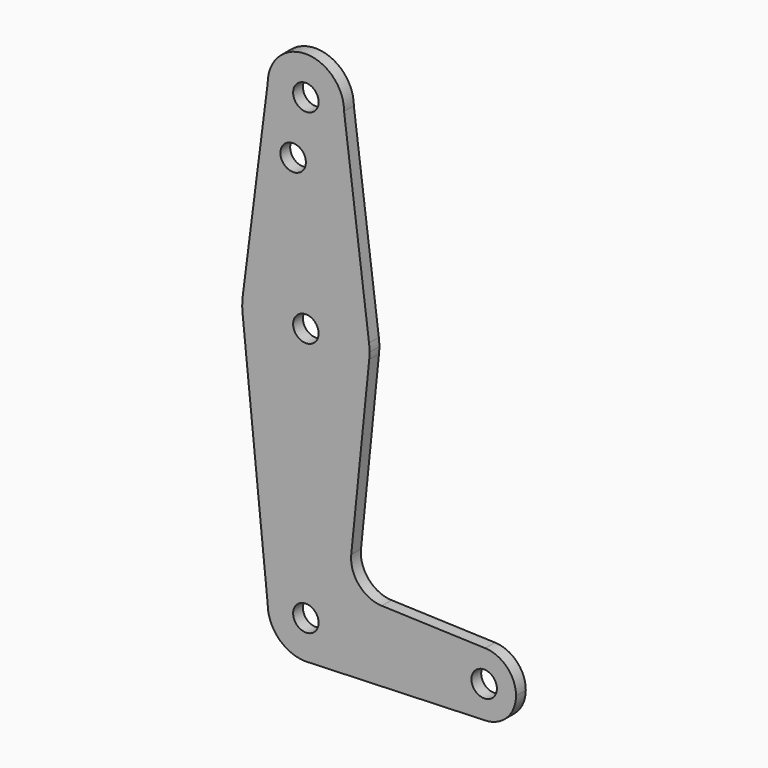
from build123d import *

# Parameters (mm, degrees)
F0_R     = 3.175
F1_DEPTH = 3.048


with BuildPart() as f1:
    # F0 (on Front) → F1 (new body)
    with BuildSketch(Plane.XZ):
        with BuildLine():
            ThreePointArc((-9.525, 50.8), (0, 41.275), (9.525, 50.8))
            ThreePointArc((9.525, 50.8), (0, 60.325), (-9.525, 50.8))
        make_face()
        with Locations((0, 50.8)):
            Circle(F0_R, mode=Mode.SUBTRACT)
        with BuildLine():
            Line((15.747457, 2.008289), (9.525, 50.8))
            ThreePointArc((9.525, 50.8), (0, 41.275), (-9.525, 50.8))
            Line((-9.525, 50.8), (-15.747457, 2.008289))
            ThreePointArc((-15.747457, 2.008289), (0, 15.875), (15.747457, 2.008289))
        make_face()
        with Locations((-3.175, 36.5252)):
            Circle(F0_R, mode=Mode.SUBTRACT)
        with BuildLine():
            ThreePointArc((15.875, 0), (15.843082, 1.006168), (15.747457, 2.008289))
            ThreePointArc((15.747457, 2.008289), (0, 15.875), (-15.747457, 2.008289))
            ThreePointArc((-15.747457, 2.008289), (-15.873668, 0.205667), (-15.794203, -1.59962))
            ThreePointArc((-15.794203, -1.59962), (0, -15.875), (15.794203, -1.59962))
            ThreePointArc((15.794203, -1.59962), (15.854788, -0.800829), (15.875, 0))
        make_face()
        Circle(F0_R, mode=Mode.SUBTRACT)
        with BuildLine():
            ThreePointArc((15.794203, -1.59962), (0, -15.875), (-15.794203, -1.59962))
            Line((-15.794203, -1.59962), (-9.525, -63.5))
            ThreePointArc((-9.525, -63.5), (0, -53.975), (9.525, -63.5))
            ThreePointArc((9.525, -63.5), (6.97129, -69.990511), (0.67949, -73.000732))
            Line((0.67949, -73.000732), (44.45, -71.4375))
            ThreePointArc((44.45, -71.4375), (36.513756, -63.358775), (44.732405, -55.567525))
            Line((44.732405, -55.567525), (18.934103, -54.649076))
            ThreePointArc((18.934103, -54.649076), (13.224974, -51.92902), (11.307223, -45.90282))
            Line((11.307223, -45.90282), (15.794203, -1.59962))
        make_face()
        with BuildLine():
            ThreePointArc((9.525, -63.5), (0, -53.975), (-9.525, -63.5))
            ThreePointArc((-9.525, -63.5), (-6.735192, -70.235192), (0, -73.025))
            Line((0, -73.025), (0.67949, -73.000732))
            ThreePointArc((0.67949, -73.000732), (6.97129, -69.990511), (9.525, -63.5))
        make_face()
        with Locations((0, -63.5)):
            Circle(F0_R, mode=Mode.SUBTRACT)
        with BuildLine():
            Line((0.67949, -73.000732), (0, -73.025))
            ThreePointArc((0, -73.025), (0.339962, -73.018931), (0.67949, -73.000732))
        make_face()
        with BuildLine():
            ThreePointArc((52.3875, -63.5), (50.161633, -57.98809), (44.732405, -55.567525))
            ThreePointArc((44.732405, -55.567525), (36.513756, -63.358775), (44.45, -71.4375))
            ThreePointArc((44.45, -71.4375), (50.06266, -69.11266), (52.3875, -63.5))
        make_face()
        with Locations((44.45, -63.5)):
            Circle(F0_R, mode=Mode.SUBTRACT)
    extrude(amount=F1_DEPTH)


solid = f1.part
